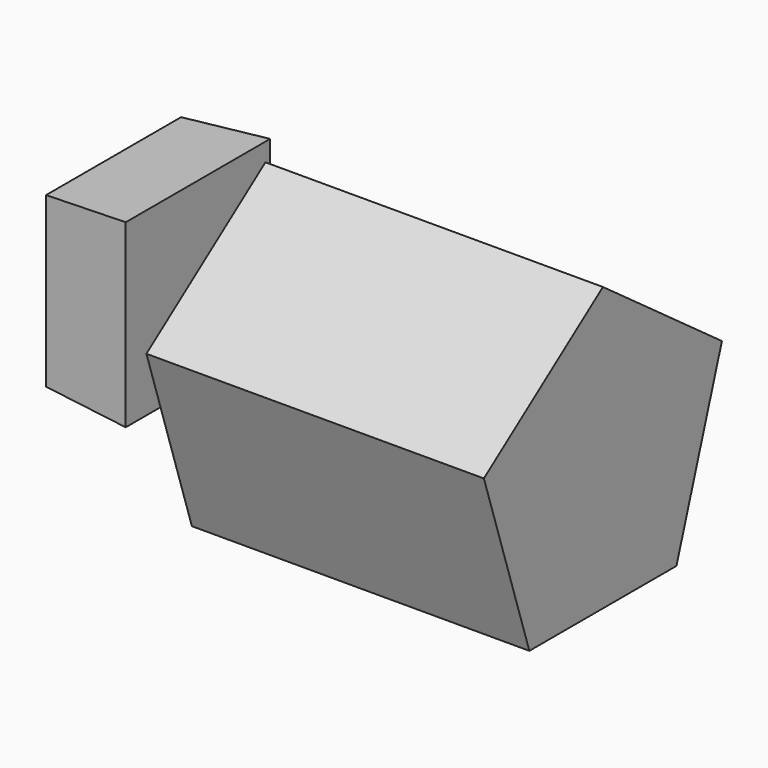
from build123d import *

# Parameters (mm, degrees)
F0_W     = 50.8
F0_H     = 50.8
F1_DEPTH = 25.4
F1_TAPER = -4
F3_DEPTH = 101.6


with BuildPart() as f1:
    # F0 (on Right) → F1 (new body)
    with BuildSketch(Plane.YZ):
        with Locations((-25.4, 25.4)):
            Rectangle(F0_W, F0_H)
    extrude(amount=F1_DEPTH, taper=F1_TAPER)

    # F2 (on face) → F3 (join)
    with BuildSketch(Plane.YZ.offset(25.4)):
        Polygon((-27.681270317, -38.1), (27.681270317, -38.1), (44.7892362247, 14.5529050286), (0, 47.0941899427), (-44.7892362247, 14.5529050286), align=None)
    extrude(amount=F3_DEPTH)


solid = f1.part
